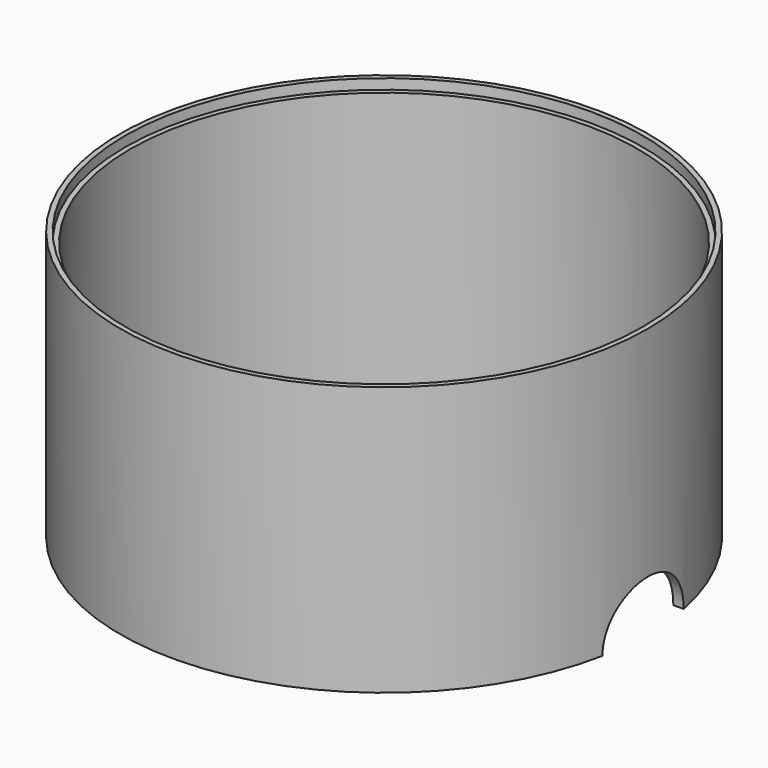
from build123d import *

# Parameters (mm, degrees)
CYLINDER009_R           = 51
CYLINDER009_DEPTH       = 16
CYLINDER002_R           = 10
CYLINDER002_DEPTH       = 10
CYLINDER002_PITCH_ANGLE = 90
CYLINDER001_R           = 50
CYLINDER001_DEPTH       = 67
CYLINDER_R              = 52
CYLINDER_DEPTH          = 53


with BuildPart() as cylinder004:
    # Cylinder009 → Cylinder009 (new body)
    with BuildSketch(Plane.XY.offset(51)):
        Circle(CYLINDER009_R)
    extrude(amount=CYLINDER009_DEPTH)


with BuildPart() as wire_hole:
    # Cylinder002 → Cylinder002 (new body)
    with BuildSketch(Plane.XY):
        Circle(CYLINDER002_R)
    extrude(amount=CYLINDER002_DEPTH)


with BuildPart() as wire_hole_1:
    # Cylinder002 pitch: moved
    add(wire_hole.part.rotate(Axis((0, 0, 0), (0, 1, 0)), CYLINDER002_PITCH_ANGLE))


with BuildPart() as wire_hole_2:
    # Cylinder002 placement: moved
    add(wire_hole_1.part.moved(Location((45, 0, 0))))


with BuildPart() as inner:
    # Cylinder001 → Cylinder001 (new body)
    with BuildSketch(Plane.XY):
        Circle(CYLINDER001_R)
    extrude(amount=CYLINDER001_DEPTH)


with BuildPart() as case_with_edge:
    # Cylinder → Cylinder (new body)
    with BuildSketch(Plane.XY):
        Circle(CYLINDER_R)
    extrude(amount=CYLINDER_DEPTH)

    # Cut: cut Inner
    add(inner.part, mode=Mode.SUBTRACT)

    # Cut001: cut Wire hole
    add(wire_hole_2.part, mode=Mode.SUBTRACT)

    # Cut005: cut Cylinder004
    add(cylinder004.part, mode=Mode.SUBTRACT)


solid = case_with_edge.part
